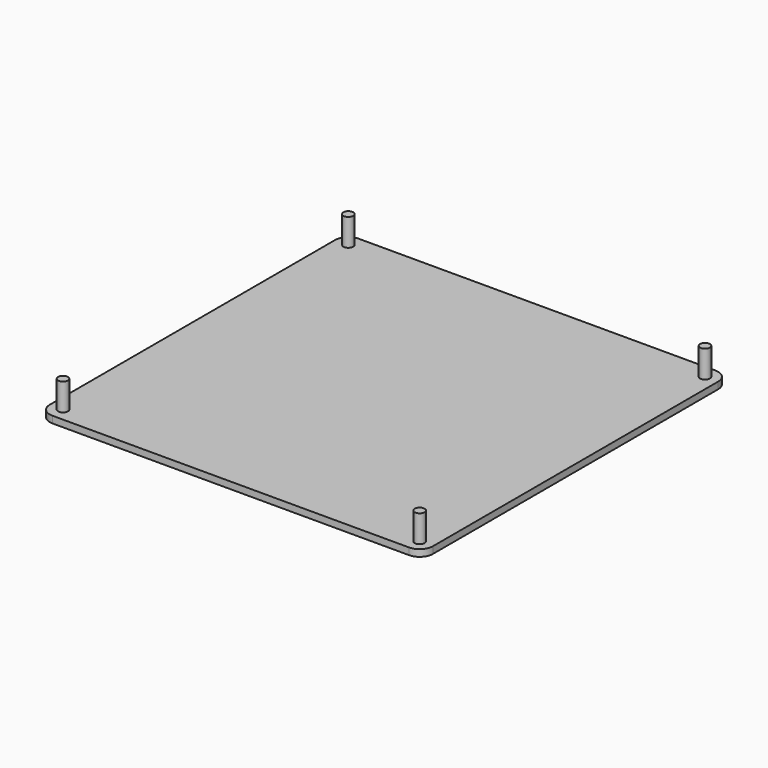
from build123d import *

# Parameters (mm, degrees)
F1_R     = 1.45
F2_DEPTH = 2
F3_DEPTH = 10


with BuildPart() as f2:
    # F1 (on Top) → F2 (new body)
    with BuildSketch(Plane.XY):
        with BuildLine():
            ThreePointArc((-53.202599287, 59.0909458041), (-55.9603157337, 57.9486622507), (-57.102599287, 55.1909458041))
            Line((-57.102599287, 55.1909458041), (-57.102599287, -49.8090541959))
            ThreePointArc((-57.102599287, -49.8090541959), (-55.9603157337, -52.5667706425), (-53.202599287, -53.7090541959))
            Line((-53.202599287, -53.7090541959), (51.797400713, -53.7090541959))
            ThreePointArc((51.797400713, -53.7090541959), (54.5551171596, -52.5667706425), (55.697400713, -49.8090541959))
            Line((55.697400713, -49.8090541959), (55.697400713, 55.1909458041))
            ThreePointArc((55.697400713, 55.1909458041), (54.5551171596, 57.9486622507), (51.797400713, 59.0909458041))
            Line((51.797400713, 59.0909458041), (-53.202599287, 59.0909458041))
        make_face()
        with Locations((-53.202599287, -49.8090541959)):
            Circle(F1_R, mode=Mode.SUBTRACT)
        with Locations((51.797400713, -49.8090541959)):
            Circle(F1_R, mode=Mode.SUBTRACT)
        with Locations((-53.202599287, 55.1909458041)):
            Circle(F1_R, mode=Mode.SUBTRACT)
        with Locations((51.797400713, 55.1909458041)):
            Circle(F1_R, mode=Mode.SUBTRACT)
    extrude(amount=F2_DEPTH)

    # F1 (on Top) → F3 (join)
    with BuildSketch(Plane.XY):
        with Locations((-53.202599287, 55.1909458041)):
            Circle(F1_R)
        with Locations((51.797400713, 55.1909458041)):
            Circle(F1_R)
        with Locations((-53.202599287, -49.8090541959)):
            Circle(F1_R)
        with Locations((51.797400713, -49.8090541959)):
            Circle(F1_R)
    extrude(amount=F3_DEPTH)


solid = f2.part
